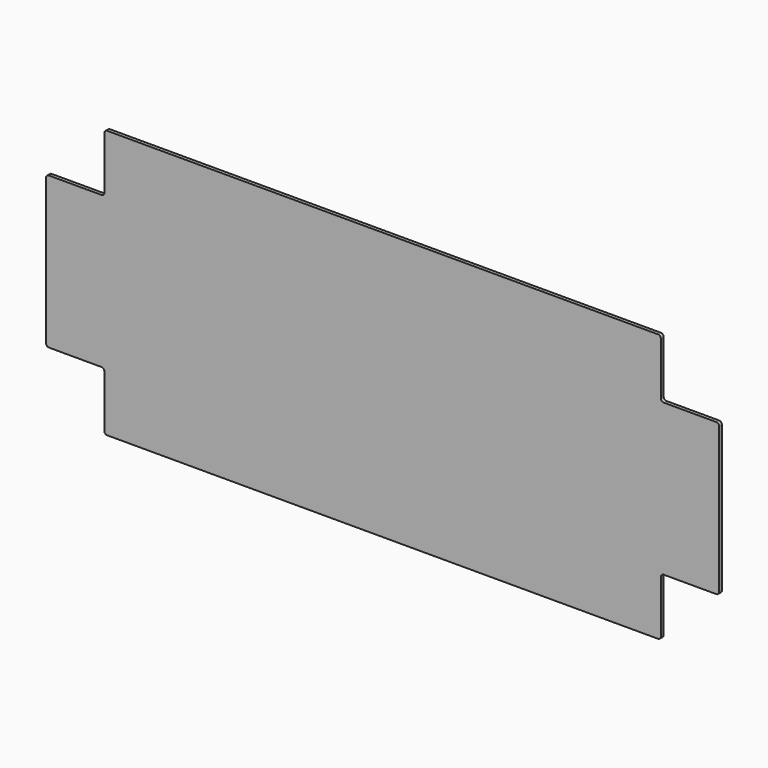
from build123d import *

# Parameters (mm, degrees)
F0_W     = 1154.9995206296
F0_H     = 460.000410676
F1_DEPTH = 6
F2_W     = 100
F2_H     = 100
F3_DEPTH = 6
F4_R     = 5


with BuildPart() as f1:
    # F0 (on Front) → F1 (new body)
    with BuildSketch(Plane.XZ):
        with Locations((597.5013840944, 56.0599192977)):
            Rectangle(F0_W, F0_H)
    extrude(amount=F1_DEPTH)

    # F2 (on face) → F3 (cut)
    with BuildSketch(Plane.XZ.offset(6)):
        with Locations((70.0016237795, 236.0601246357)):
            Rectangle(F2_W, F2_H)
        with Locations((1125.0011444092, -123.9402860403)):
            Rectangle(F2_W, F2_H)
        with Locations((1125.0011444092, 236.0601246357)):
            Rectangle(F2_W, F2_H)
        with Locations((70.0016237795, -123.9402860403)):
            Rectangle(F2_W, F2_H)
    extrude(amount=-F3_DEPTH, mode=Mode.SUBTRACT)

    # F4
    f4_edges = [f1.edges().sort_by_distance(p)[0] for p in [
        (120.001624, -3, 286.060125),
        (120.001624, -3, 186.060125),
        (20.001624, -3, 186.060125),
        (20.001624, -3, -73.940286),
        (120.001624, -3, -73.940286),
        (120.001624, -3, -173.940286),
        (1075.001144, -3, -173.940286),
        (1075.001144, -3, -73.940286),
        (1175.001144, -3, -73.940286),
        (1175.001144, -3, 186.060125),
        (1075.001144, -3, 186.060125),
        (1075.001144, -3, 286.060125),
    ]]
    fillet(f4_edges, radius=F4_R)


solid = f1.part
